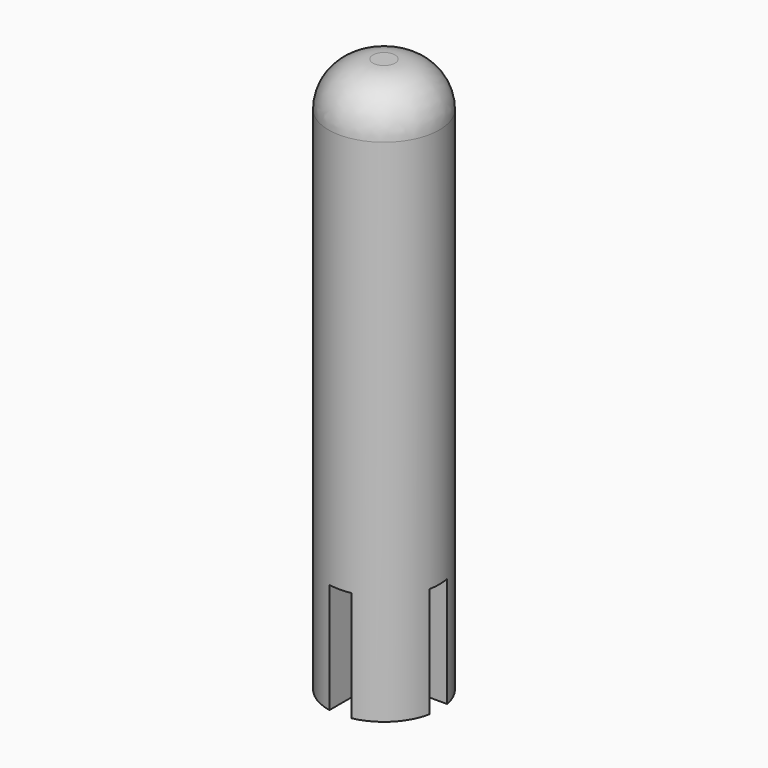
from build123d import *

# Parameters (mm, degrees)
F2_W     = 10
F2_H     = 2
F3_DEPTH = 25
F4_W     = 2
F4_H     = 10
F5_DEPTH = 25


with BuildPart() as f1:
    # F0 (on Right) → F1 (revolve)
    with BuildSketch(Plane.YZ):
        with BuildLine():
            Line((0, -9.940476), (0, 40.059524))
            Line((0, 40.059524), (-1, 40.059524))
            ThreePointArc((-1, 40.059524), (-3.828427, 38.887951), (-5, 36.059524))
            Line((-5, 36.059524), (-5, -9.940476))
            Line((-5, -9.940476), (0, -9.940476))
        make_face()
    revolve(axis=Axis((0, 0, 15.059524), (0, 0, -1)))

    # F2 (on Top) → F3 (cut)
    with BuildSketch(Plane.XY):
        Rectangle(F2_W, F2_H)
    extrude(amount=-F3_DEPTH, mode=Mode.SUBTRACT)

    # F4 (on Top) → F5 (cut)
    with BuildSketch(Plane.XY):
        Rectangle(F4_W, F4_H)
    extrude(amount=-F5_DEPTH, mode=Mode.SUBTRACT)


solid = f1.part
